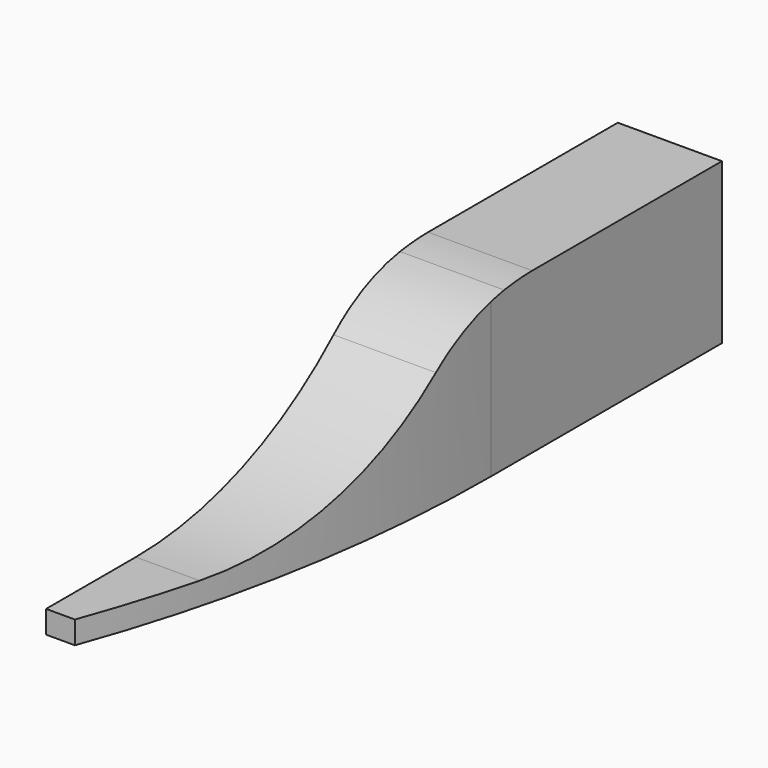
from build123d import *

# Parameters (mm, degrees)
F1_DEPTH = 50
F3_DEPTH = 32.5
F4_R     = 50


with BuildPart() as f1:
    # F0 (on Top) → F1 (new body)
    with BuildSketch(Plane.XY):
        with BuildLine():
            Line((32.5, 110.258812), (0, 110.258812))
            Line((0, 110.258812), (0, -112.741188))
            Line((0, -112.741188), (9, -112.741188))
            ThreePointArc((9, -112.741188), (26.579848, -47.271274), (32.5, 20.258812))
            Line((32.5, 20.258812), (32.5, 110.258812))
        make_face()
    extrude(amount=F1_DEPTH)

    # F2 (on face) → F3 (cut)
    with BuildSketch(Plane(origin=(0, 0, 0), x_dir=(0, -1, 0), z_dir=(-1, 0, 0))):
        with BuildLine():
            Line((-37.258812, 50), (-36.241843, 50))
            ThreePointArc((-36.241843, 50), (-36.750328, 50.001724), (-37.258812, 50))
        make_face()
        with BuildLine():
            Line((112.741188, 50), (-12.258812, 50))
            Line((-12.258812, 50), (-36.241843, 50))
            ThreePointArc((-36.241843, 50), (-20.898034, 48.307281), (-6.225791, 43.509042))
            ThreePointArc((-6.225791, 43.509042), (31.978225, 16.584949), (77.741188, 7.087324))
            Line((77.741188, 7.087324), (112.741188, 7.087324))
            Line((112.741188, 7.087324), (112.741188, 50))
        make_face()
    extrude(amount=-F3_DEPTH, mode=Mode.SUBTRACT)

    # F4
    f4_edges = [f1.edges().sort_by_distance(p)[0] for p in [
        (16.12311, 6.225791, 43.509042),
    ]]
    fillet(f4_edges, radius=F4_R)


solid = f1.part
